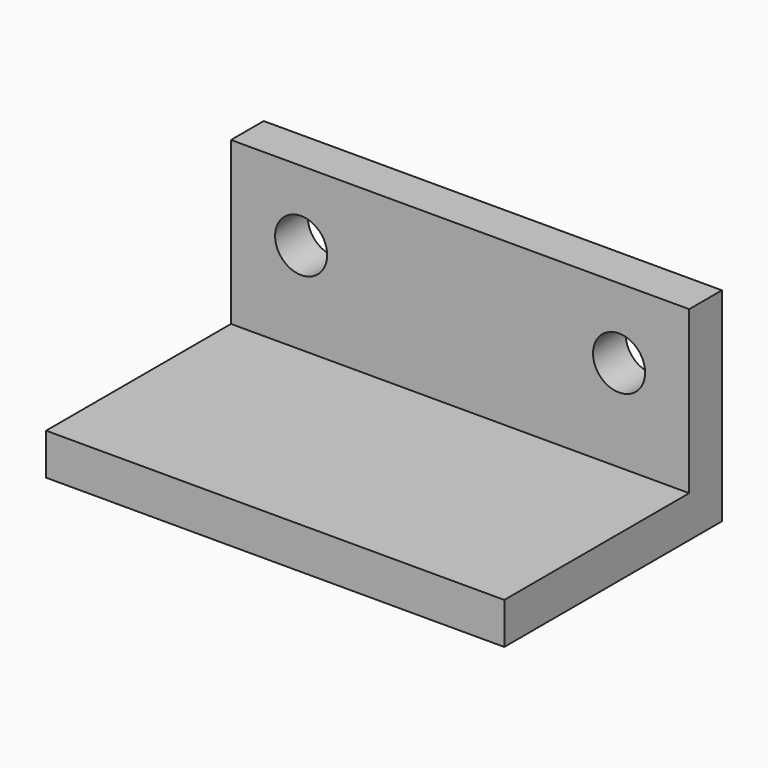
from build123d import *

# Parameters (mm, degrees)
F0_W     = 25.77
F0_H     = 11.44
F0_R     = 1.465
F1_DEPTH = 2.3
F2_W     = 25.77
F2_H     = 2.33
F3_DEPTH = 13


with BuildPart() as f1:
    # F0 (on Front) → F1 (new body)
    with BuildSketch(Plane.XZ):
        Rectangle(F0_W, F0_H)
        with Locations((-8.94, 1.775)):
            Circle(F0_R, mode=Mode.SUBTRACT)
        with Locations((8.94, 1.775)):
            Circle(F0_R, mode=Mode.SUBTRACT)
    extrude(amount=F1_DEPTH)

    # F2 (on face) → F3 (join)
    with BuildSketch(Plane.XZ.offset(2.3)):
        with Locations((0, -4.555)):
            Rectangle(F2_W, F2_H)
    extrude(amount=F3_DEPTH)


solid = f1.part
